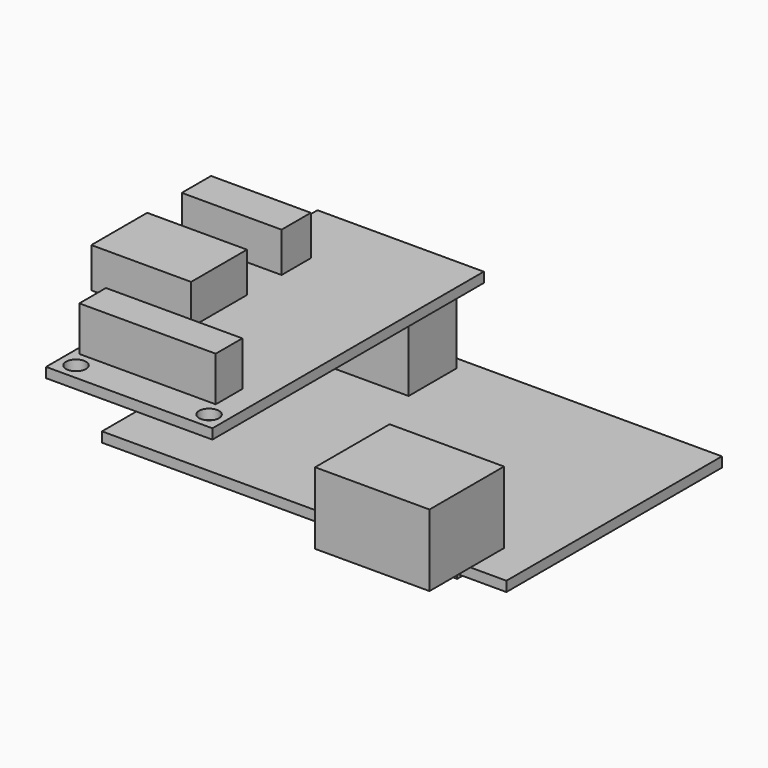
from build123d import *

# Parameters (mm, degrees)
F0_W      = 60.8
F0_H      = 40.5
F1_DEPTH  = 1.5
F2_W      = 17.2
F2_H      = 7.7
F2_H_2    = 6.3
F3_DEPTH  = 10.8
F4_W      = 17.2
F4_H      = 9
F5_DEPTH  = 9.3
F6_W      = 10
F6_H      = 6
F6_W_2    = 9
F6_H_2    = 12.5
F7_DEPTH  = 2
F8_W      = 11
F8_H      = 5
F9_DEPTH  = 2
F10_W     = 25
F10_H     = 51
F10_W_2   = 11
F10_H_2   = 5
F11_DEPTH = 1.5
F12_W     = 8
F12_H     = 5.5
F12_W_2   = 7
F12_H_2   = 10.5
F13_DEPTH = 6
F14_W     = 20.5
F14_H     = 5
F15_DEPTH = 6.7
F17_D     = 3


with BuildPart() as f1:
    # F0 (on Top) → F1 (new body)
    with BuildSketch(Plane.XY):
        Rectangle(F0_W, F0_H)
    extrude(amount=F1_DEPTH)

    # F2 (on face) → F3 (join)
    with BuildSketch(Plane.XY.offset(1.5)):
        with Locations((16.4, -24.1)):
            Rectangle(F2_W, F2_H)
        with Locations((16.4, -17.1)):
            Rectangle(F2_W, F2_H_2)
    extrude(amount=F3_DEPTH)

    # F4 (on face) → F5 (join)
    with BuildSketch(Plane.XY.offset(1.5)):
        with Locations((-16.5, 13.75)):
            Rectangle(F4_W, F4_H)
    extrude(amount=F5_DEPTH)

    # F6 (on face) → F7 (join)
    with BuildSketch(Plane(origin=(0, 0, 0), x_dir=(1, 0, 0), z_dir=(0, 0, -1))):
        with Locations((-16.4, -13.25)):
            Rectangle(F6_W, F6_H)
        with Locations((1.9, 4.5)):
            Rectangle(F6_W_2, F6_H_2)
        with Locations((16.4, 15.25)):
            Rectangle(F6_W, F6_H)
    extrude(amount=F7_DEPTH)

    # F8 (on face) → F9 (join)
    with BuildSketch(Plane.XY.offset(10.8)):
        with Locations((-16.5, 13.75)):
            Rectangle(F8_W, F8_H)
    extrude(amount=F9_DEPTH)

    # F10 (on face) → F11 (join)
    with BuildSketch(Plane.XY.offset(12.8)):
        with Locations((-17.9, -5.25)):
            Rectangle(F10_W, F10_H)
        with Locations((-16.5, 13.75)):
            Rectangle(F10_W_2, F10_H_2, mode=Mode.SUBTRACT)
        with Locations((-16.5, 13.75)):
            Rectangle(F10_W_2, F10_H_2)
    extrude(amount=F11_DEPTH)

    # F12 (on face) → F13 (join)
    with BuildSketch(Plane.XY.offset(14.3)):
        with Locations((-34.4, 7.5)):
            Rectangle(F12_W, F12_H)
        with Locations((-26.9, 7.5)):
            Rectangle(F12_W_2, F12_H)
        with Locations((-26.9, -7)):
            Rectangle(F12_W_2, F12_H_2)
        with Locations((-34.4, -7)):
            Rectangle(F12_W, F12_H_2)
    extrude(amount=F13_DEPTH)

    # F14 (on face) → F15 (join)
    with BuildSketch(Plane.XY.offset(14.3)):
        with Locations((-19.15, -23.25)):
            Rectangle(F14_W, F14_H)
    extrude(amount=F15_DEPTH)

    # F17 (through all)
    with Locations(Plane.XY.offset(14.3)):
        with Locations((-7.9, -28.25), (-27.9, -28.25)):
            Hole(F17_D / 2)


solid = f1.part
